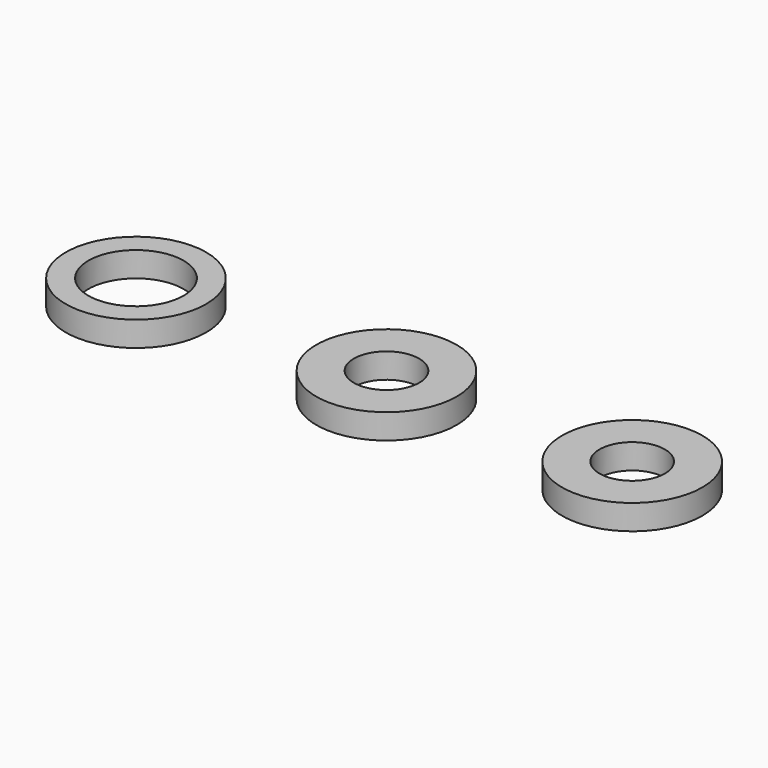
from build123d import *

# Parameters (mm, degrees)
F0_R     = 5.9
F0_R_2   = 2.75
F0_R_3   = 4
F1_DEPTH = 2.1


with BuildPart() as f1:
    # F0 (on Top) → F1 (new body)
    with BuildSketch(Plane.XY):
        Circle(F0_R)
        Circle(F0_R_2, mode=Mode.SUBTRACT)
        with Locations((-21.057213, 0)):
            Circle(F0_R)
        with Locations((-21.057213, 0)):
            Circle(F0_R_3, mode=Mode.SUBTRACT)
        with Locations((20.654204, 0)):
            Circle(F0_R)
        with Locations((20.654204, 0)):
            Circle(F0_R_2, mode=Mode.SUBTRACT)
    extrude(amount=F1_DEPTH)


solid = f1.part
